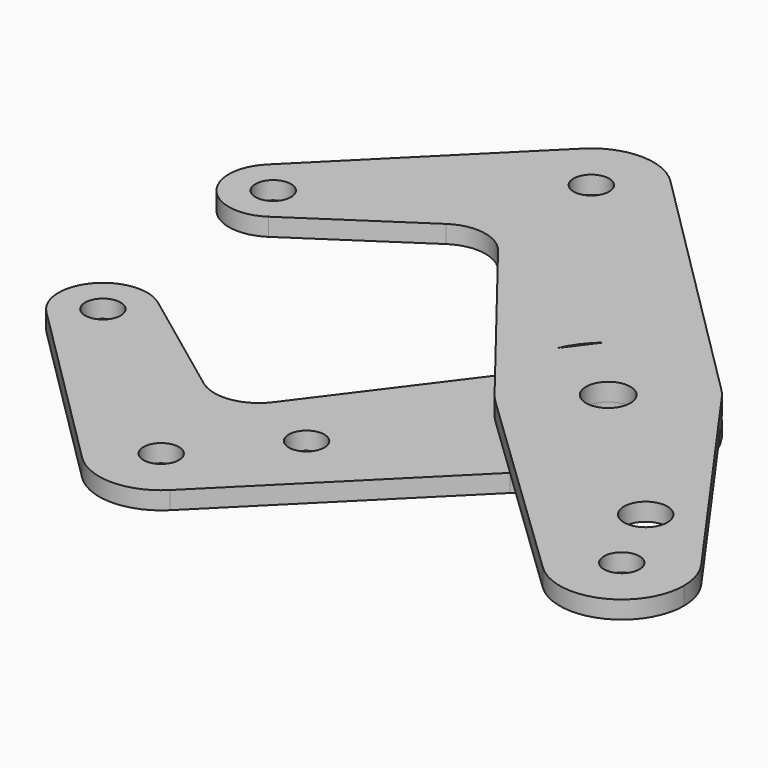
from build123d import *

# Parameters (mm, degrees)
F0_R     = 3.175
F0_R_2   = 3.9751
F1_DEPTH = 3.175
F0_R_3   = 4.7847729389
F2_DEPTH = 3.175


with BuildPart() as f1:
    # F0 (on Top) → F1 (new body)
    with BuildSketch(Plane.XY):
        with BuildLine():
            ThreePointArc((-10.3708392388, 12.0192062335), (0.5706262755, 15.8647411152), (11.2075416019, 11.2430705877))
            Line((11.2075416019, 11.2430705877), (-33.638077834, 55.9469743452))
            ThreePointArc((-33.638077834, 55.9469743452), (-31.2201137914, 52.3375168972), (-30.3708569553, 48.0768249338))
            ThreePointArc((-30.3708569553, 48.0768249338), (-45.7461833983, 37.8144681398), (-49.3253616963, 55.9502370208))
            Line((-49.3253616963, 55.9502370208), (-80.7385663669, 24.6623408415))
            ThreePointArc((-80.7385663669, 24.6623408415), (-72.0922583783, 26.3687299179), (-67.199634409, 19.0384750651))
            ThreePointArc((-67.199634409, 19.0384750651), (-68.1402759538, 15.2904251711), (-70.7392572141, 12.4307082389))
            Line((-70.7392572141, 12.4307082389), (-49.9878120816, 26.2420774519))
            ThreePointArc((-49.9878120816, 26.2420774519), (-44.3161513857, 27.4723707127), (-39.3195210651, 24.5202457158))
            Line((-39.3195210651, 24.5202457158), (-19.7516338893, -0.5100556405))
            Line((-19.7516338893, -0.5100556405), (-14.4531350546, 6.5667733397))
            ThreePointArc((-14.4531350546, 6.5667733397), (-12.7078590268, 9.5145122815), (-10.3708392388, 12.0192062335))
        make_face()
        with BuildLine():
            ThreePointArc((12.938537065, 9.1983630945), (15.1230767522, 4.8278540312), (15.875, 0))
            ThreePointArc((15.875, 0), (14.6617759485, -6.0867028049), (11.2075416019, -11.2430705877))
            Line((11.2075416019, -11.2430705877), (0.2089441574, -22.2069116008))
            Line((0.2089441574, -22.2069116008), (25.4908822689, -46.4778349313))
            ThreePointArc((25.4908822689, -46.4778349313), (22.2115936915, -36.7193306078), (28.3515763267, -28.455992696))
            ThreePointArc((28.3515763267, -28.455992696), (35.9500570285, -27.6980295273), (42.2436615098, -32.0226057809))
            Line((42.2436615098, -32.0226057809), (12.938537065, 9.1983630945))
        make_face()
        with BuildLine():
            ThreePointArc((30.54313765, -24.9628859014), (29.9498889636, -27.0247258632), (28.3515763267, -28.455992696))
            ThreePointArc((28.3515763267, -28.455992696), (23.3771984315, -22.9010459396), (30.54313765, -24.9628859014))
        make_face(mode=Mode.SUBTRACT)
        with BuildLine():
            Line((0.2089441574, -22.2069116008), (11.2075416019, -11.2430705877))
            ThreePointArc((11.2075416019, -11.2430705877), (0.1493607821, -15.87429735), (-10.9940047077, -11.4519642633))
            Line((-10.9940047077, -11.4519642633), (0.2089441574, -22.2069116008))
        make_face()
        with BuildLine():
            Line((-19.7516338893, -0.5100556405), (-12.5067436464, -9.77737124))
            ThreePointArc((-12.5067436464, -9.77737124), (-15.7636141288, -1.8772572008), (-14.4531350546, 6.5667733397))
            Line((-14.4531350546, 6.5667733397), (-19.7516338893, -0.5100556405))
        make_face()
        with BuildLine():
            ThreePointArc((-67.199634409, 19.0384750651), (-72.0922583783, 26.3687299179), (-80.7385663669, 24.6623408415))
            ThreePointArc((-80.7385663669, 24.6623408415), (-81.2824859082, 14.0146755864), (-70.7392572141, 12.4307082389))
            ThreePointArc((-70.7392572141, 12.4307082389), (-68.1402759538, 15.2904251711), (-67.199634409, 19.0384750651))
        make_face()
        with Locations((-75.137134409, 19.0384750651)):
            Circle(F0_R, mode=Mode.SUBTRACT)
        with BuildLine():
            ThreePointArc((-30.3708569553, 48.0768249338), (-31.2201137914, 52.3375168972), (-33.638077834, 55.9469743452))
            ThreePointArc((-33.638077834, 55.9469743452), (-41.4810457533, 59.1893246935), (-49.3253616963, 55.9502370208))
            ThreePointArc((-49.3253616963, 55.9502370208), (-45.7461833983, 37.8144681398), (-30.3708569553, 48.0768249338))
        make_face()
        with Locations((-41.4833569553, 48.0768249338)):
            Circle(F0_R, mode=Mode.SUBTRACT)
        with BuildLine():
            ThreePointArc((11.2075416019, -11.2430705877), (14.6617759485, -6.0867028049), (15.875, 0))
            ThreePointArc((15.875, 0), (15.1230767522, 4.8278540312), (12.938537065, 9.1983630945))
            ThreePointArc((12.938537065, 9.1983630945), (12.1162488391, 10.2572968695), (11.2075416019, 11.2430705877))
            ThreePointArc((11.2075416019, 11.2430705877), (0.5706262755, 15.8647411152), (-10.3708392388, 12.0192062335))
            Line((-10.3708392388, 12.0192062335), (-14.4531350546, 6.5667733397))
            ThreePointArc((-14.4531350546, 6.5667733397), (-15.7636141288, -1.8772572008), (-12.5067436464, -9.77737124))
            ThreePointArc((-12.5067436464, -9.77737124), (-11.7801680272, -10.6415819431), (-10.9940047077, -11.4519642633))
            ThreePointArc((-10.9940047077, -11.4519642633), (0.1493607821, -15.87429735), (11.2075416019, -11.2430705877))
        make_face()
        Circle(F0_R_2, mode=Mode.SUBTRACT)
        with BuildLine():
            ThreePointArc((44.2991855643, -38.461459947), (43.7728392908, -35.0819621252), (42.2436615098, -32.0226057809))
            ThreePointArc((42.2436615098, -32.0226057809), (35.9500570285, -27.6980295273), (28.3515763267, -28.455992696))
            ThreePointArc((28.3515763267, -28.455992696), (22.2115936915, -36.7193306078), (25.4908822689, -46.4778349313))
            ThreePointArc((25.4908822689, -46.4778349313), (37.5437512127, -48.6841618983), (44.2991855643, -38.461459947))
        make_face()
        with Locations((33.1866855643, -38.461459947)):
            Circle(F0_R, mode=Mode.SUBTRACT)
    extrude(amount=F1_DEPTH)

    # F0 (on Top) → F2 (join)
    with BuildSketch(Plane.XY):
        with BuildLine():
            Line((0.2089441574, -22.2069116008), (-10.9940047077, -11.4519642633))
            ThreePointArc((-10.9940047077, -11.4519642633), (-11.7801680272, -10.6415819431), (-12.5067436464, -9.77737124))
            Line((-12.5067436464, -9.77737124), (-19.7516338893, -0.5100556405))
            Line((-19.7516338893, -0.5100556405), (-38.9795640629, -26.1914378064))
            ThreePointArc((-38.9795640629, -26.1914378064), (-44.2039636671, -29.2946557582), (-50.094165758, -27.8013934876))
            Line((-50.094165758, -27.8013934876), (-70.3942171821, -12.6738350573))
            ThreePointArc((-70.3942171821, -12.6738350573), (-68.0430942435, -15.4777868759), (-67.199634409, -19.0384750651))
            ThreePointArc((-67.199634409, -19.0384750651), (-72.0922583783, -26.3687299179), (-80.7385663669, -24.6623408415))
            Line((-80.7385663669, -24.6623408415), (-49.3253616963, -55.9502370208))
            ThreePointArc((-49.3253616963, -55.9502370208), (-52.5667768464, -48.8802300418), (-50.3788582741, -41.4166663368))
            ThreePointArc((-50.3788582741, -41.4166663368), (-43.076382789, -37.0791013083), (-34.8432728377, -39.1663289229))
            ThreePointArc((-34.8432728377, -39.1663289229), (-31.5517007237, -43.0918614689), (-30.3708569553, -48.0768249338))
            ThreePointArc((-30.3708569553, -48.0768249338), (-31.2201137914, -52.3375168972), (-33.638077834, -55.9469743452))
            Line((-33.638077834, -55.9469743452), (0.2089441574, -22.2069116008))
        make_face()
        with Locations((-27.9929692735, -32.4422414653)):
            Circle(F0_R_3, mode=Mode.SUBTRACT)
        with BuildLine():
            Line((0.2089441574, -22.2069116008), (11.2075416019, -11.2430705877))
            ThreePointArc((11.2075416019, -11.2430705877), (0.1493607821, -15.87429735), (-10.9940047077, -11.4519642633))
            Line((-10.9940047077, -11.4519642633), (0.2089441574, -22.2069116008))
        make_face()
        with BuildLine():
            Line((-19.7516338893, -0.5100556405), (-12.5067436464, -9.77737124))
            ThreePointArc((-12.5067436464, -9.77737124), (-15.7636141288, -1.8772572008), (-14.4531350546, 6.5667733397))
            Line((-14.4531350546, 6.5667733397), (-19.7516338893, -0.5100556405))
        make_face()
        with BuildLine():
            ThreePointArc((11.2075416019, -11.2430705877), (14.6617759485, -6.0867028049), (15.875, 0))
            ThreePointArc((15.875, 0), (15.1230767522, 4.8278540312), (12.938537065, 9.1983630945))
            ThreePointArc((12.938537065, 9.1983630945), (12.1162488391, 10.2572968695), (11.2075416019, 11.2430705877))
            ThreePointArc((11.2075416019, 11.2430705877), (0.5706262755, 15.8647411152), (-10.3708392388, 12.0192062335))
            Line((-10.3708392388, 12.0192062335), (-14.4531350546, 6.5667733397))
            ThreePointArc((-14.4531350546, 6.5667733397), (-15.7636141288, -1.8772572008), (-12.5067436464, -9.77737124))
            ThreePointArc((-12.5067436464, -9.77737124), (-11.7801680272, -10.6415819431), (-10.9940047077, -11.4519642633))
            ThreePointArc((-10.9940047077, -11.4519642633), (0.1493607821, -15.87429735), (11.2075416019, -11.2430705877))
        make_face()
        Circle(F0_R_2, mode=Mode.SUBTRACT)
        with Locations((-27.9929692735, -32.4422414653)):
            Circle(F0_R_3)
        with Locations((-27.9929692735, -32.4422414653)):
            Circle(F0_R, mode=Mode.SUBTRACT)
        with BuildLine():
            ThreePointArc((-49.3253616963, -55.9502370208), (-41.4810457533, -59.1893246935), (-33.638077834, -55.9469743452))
            ThreePointArc((-33.638077834, -55.9469743452), (-31.2201137914, -52.3375168972), (-30.3708569553, -48.0768249338))
            ThreePointArc((-30.3708569553, -48.0768249338), (-31.5517007237, -43.0918614689), (-34.8432728377, -39.1663289229))
            ThreePointArc((-34.8432728377, -39.1663289229), (-43.076382789, -37.0791013083), (-50.3788582741, -41.4166663368))
            ThreePointArc((-50.3788582741, -41.4166663368), (-52.5667768464, -48.8802300418), (-49.3253616963, -55.9502370208))
        make_face()
        with Locations((-41.4833569553, -48.0768249338)):
            Circle(F0_R, mode=Mode.SUBTRACT)
        with BuildLine():
            ThreePointArc((-70.3942171821, -12.6738350573), (-81.1467375257, -13.8530554456), (-80.7385663669, -24.6623408415))
            ThreePointArc((-80.7385663669, -24.6623408415), (-72.0922583783, -26.3687299179), (-67.199634409, -19.0384750651))
            ThreePointArc((-67.199634409, -19.0384750651), (-68.0430942435, -15.4777868759), (-70.3942171821, -12.6738350573))
        make_face()
        with Locations((-75.137134409, -19.0384750651)):
            Circle(F0_R, mode=Mode.SUBTRACT)
    extrude(amount=-F2_DEPTH)


solid = f1.part
